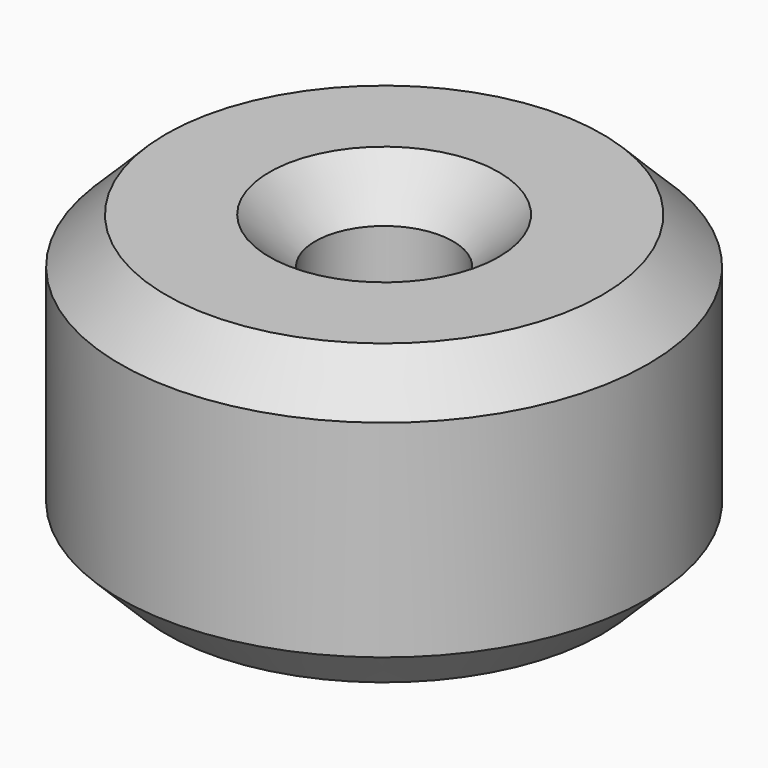
from build123d import *

# Parameters (mm, degrees)
F0_R     = 11.5
F0_R_2   = 3
F1_DEPTH = 13
F2_SIZE  = 2
F3_SIZE  = 2
F4_SIZE  = 2


with BuildPart() as f1:
    # F0 (on Top) → F1 (new body)
    with BuildSketch(Plane.XY):
        with Locations((-42.798914, 37.472825)):
            Circle(F0_R)
        with Locations((-42.798914, 37.472825)):
            Circle(F0_R_2, mode=Mode.SUBTRACT)
    extrude(amount=F1_DEPTH)

    # F2
    f2_edges = [f1.edges().sort_by_distance(p)[0] for p in [
        (-54.298914, 37.472825, 13),
    ]]
    chamfer(f2_edges, length=F2_SIZE)

    # F3
    f3_edges = [f1.edges().sort_by_distance(p)[0] for p in [
        (-54.298914, 37.472825, 0),
    ]]
    chamfer(f3_edges, length=F3_SIZE)

    # F4
    f4_edges = [f1.edges().sort_by_distance(p)[0] for p in [
        (-45.798914, 37.472825, 13),
    ]]
    chamfer(f4_edges, length=F4_SIZE)


solid = f1.part
